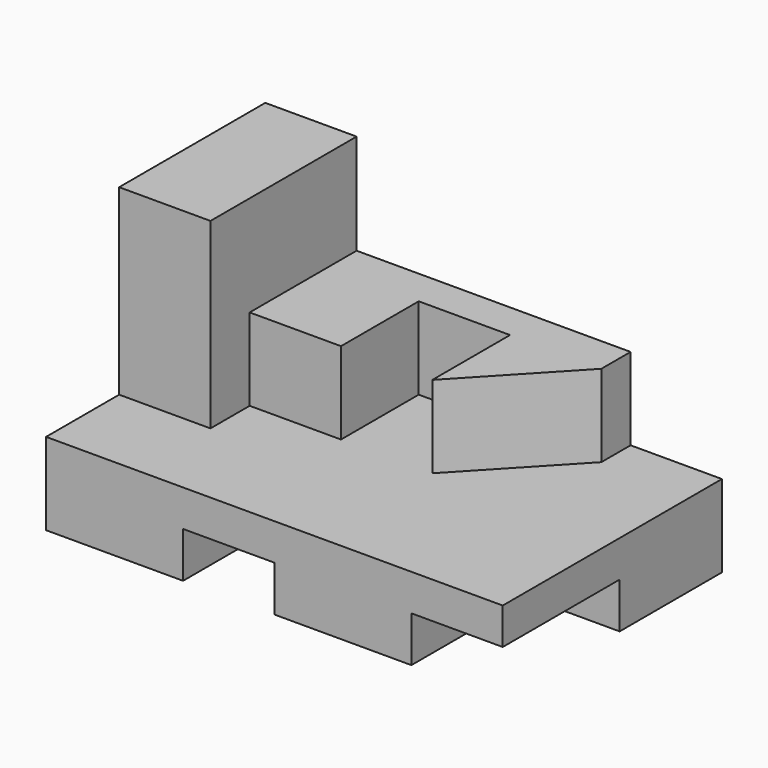
from build123d import *

# Parameters (mm, degrees)
F0_W     = 317.5
F0_H     = 57.15
F1_DEPTH = 190.5
F2_W     = 63.5
F2_H     = 31.75
F3_DEPTH = 190.501
F4_W     = 63.5
F4_H     = 31.75
F5_DEPTH = 101.6
F6_W     = 63.5
F6_H     = 127
F7_DEPTH = 127
F9_DEPTH = 57.15


with BuildPart() as f1:
    # F0 (on Front) → F1 (new body)
    with BuildSketch(Plane.XZ):
        with Locations((0, 28.575)):
            Rectangle(F0_W, F0_H)
    extrude(amount=-F1_DEPTH)

    # F2 (on face) → F3 (cut, through all)
    with BuildSketch(Plane.XZ):
        with Locations((-31.75, 15.875)):
            Rectangle(F2_W, F2_H)
    extrude(amount=-F3_DEPTH, mode=Mode.SUBTRACT)

    # F4 (on face) → F5 (cut)
    with BuildSketch(Plane.XZ):
        with Locations((127, 15.875)):
            Rectangle(F4_W, F4_H)
    extrude(amount=-F5_DEPTH, mode=Mode.SUBTRACT)

    # F6 (on face) → F7 (join)
    with BuildSketch(Plane.XY.offset(57.15)):
        with Locations((-127, 127)):
            Rectangle(F6_W, F6_H)
    extrude(amount=F7_DEPTH)

    # F8 (on face) → F9 (join)
    with BuildSketch(Plane.XY.offset(57.15)):
        Polygon((95.25, 190.5), (-95.25, 190.5), (-95.25, 97.55057), (-31.75, 97.55057), (-31.75, 165.1), (31.75, 165.1), (31.75, 97.55057), (95.25, 165.1), align=None)
    extrude(amount=F9_DEPTH)


solid = f1.part
